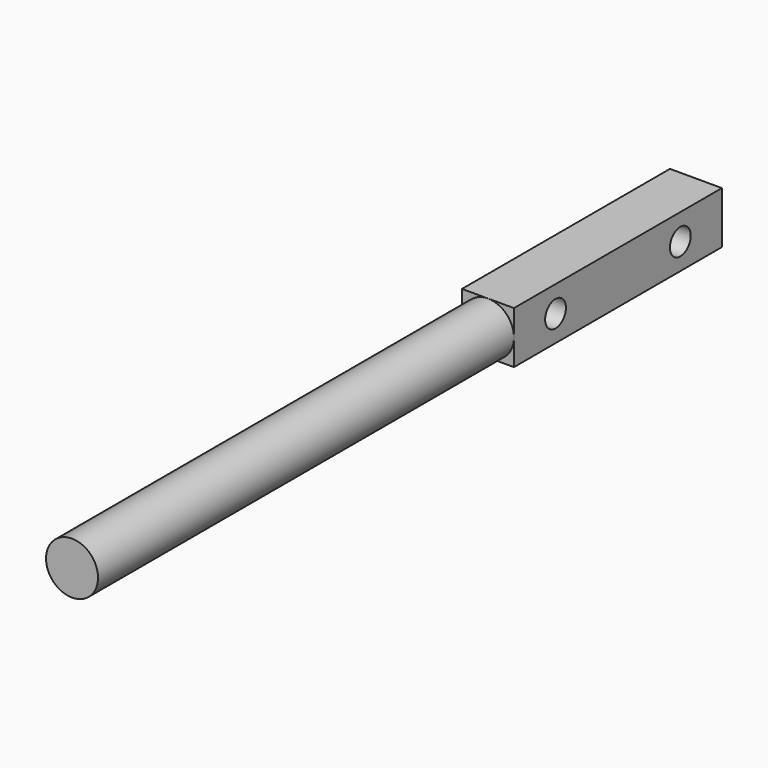
from build123d import *

# Parameters (mm, degrees)
F0_W     = 12.7
F0_H     = 12.7
F1_DEPTH = 63.5
F2_R     = 6.35
F3_DEPTH = 127
F4_R     = 3.175
F5_DEPTH = 25.4


with BuildPart() as f1:
    # F0 (on Front) → F1 (new body)
    with BuildSketch(Plane.XZ):
        with Locations((6.35, -6.35)):
            Rectangle(F0_W, F0_H)
    extrude(amount=-F1_DEPTH)

    # F2 (on face) → F3 (join)
    with BuildSketch(Plane.XZ):
        with Locations((6.35, -6.35)):
            Circle(F2_R)
    extrude(amount=F3_DEPTH)

    # F4 (on face) → F5 (cut)
    with BuildSketch(Plane(origin=(0, 0, 0), x_dir=(0, -1, 0), z_dir=(-1, 0, 0))):
        with Locations((-50.8, -6.35)):
            Circle(F4_R)
        with Locations((-12.7, -6.35)):
            Circle(F4_R)
    extrude(amount=-F5_DEPTH, mode=Mode.SUBTRACT)


solid = f1.part
